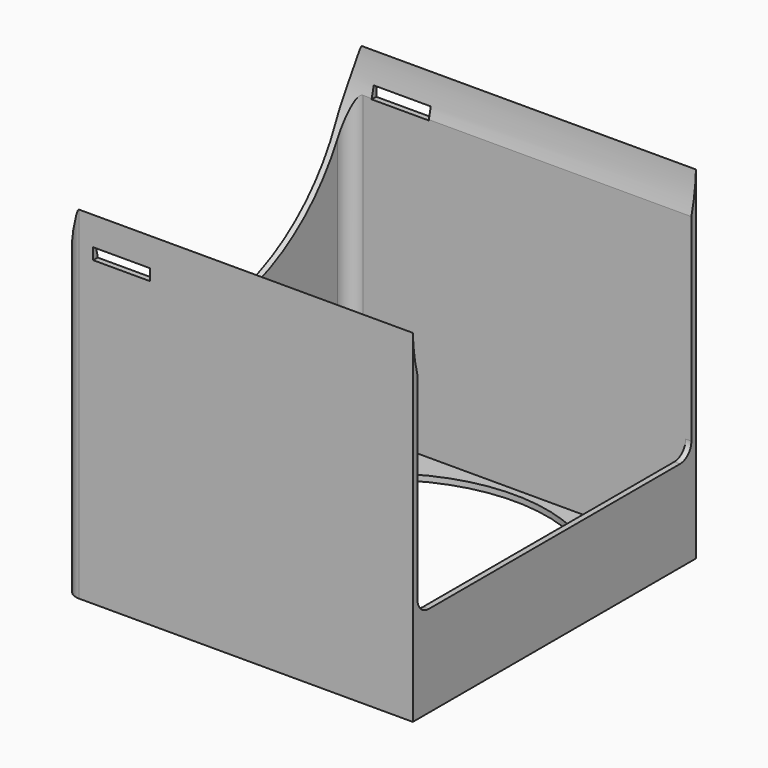
from build123d import *

# Parameters (mm, degrees)
F0_W     = 120
F0_H     = 120
F0_R     = 57.5
F1_DEPTH = 2
F2_DEPTH = 120
F3_D     = 3
F5_DEPTH = 122.001
F6_W     = 20
F6_H     = 4
F7_DEPTH = 124.001
F8_W     = 2
F8_H     = 120
F9_DEPTH = 30
F10_R    = 5


with BuildPart() as f1:
    # F0 (on Top) → F1 (new body)
    with BuildSketch(Plane.XY):
        Rectangle(F0_W, F0_H)
        Circle(F0_R, mode=Mode.SUBTRACT)
    extrude(amount=F1_DEPTH)

    # F0 (on Top) → F2 (join)
    with BuildSketch(Plane.XY):
        Polygon((60, -62), (60, -60), (-60, -60), (-60, 60), (60, 60), (60, 62), (-62, 62), (-62, -62), align=None)
    extrude(amount=F2_DEPTH)

    # F3 (through all)
    with Locations(Plane(origin=(0, 0, 0), x_dir=(1, 0, 0), z_dir=(0, 0, -1))):
        with Locations((52.5, 52.5), (52.5, -52.5), (-52.5, -52.5), (-52.5, 52.5)):
            Hole(F3_D / 2)

    # F4 (on face) → F5 (cut, through all)
    with BuildSketch(Plane(origin=(-62, 0, 0), x_dir=(0, -1, 0), z_dir=(-1, 0, 0))):
        with BuildLine():
            Line((62, 120), (-62, 120))
            ThreePointArc((-62, 120), (0, 60), (62, 120))
        make_face()
    extrude(amount=-F5_DEPTH, mode=Mode.SUBTRACT)

    # F6 (on face) → F7 (cut, through all)
    with BuildSketch(Plane.XZ.offset(62)):
        with Locations((-42, 108)):
            Rectangle(F6_W, F6_H)
    extrude(amount=-F7_DEPTH, mode=Mode.SUBTRACT)

    # F8 (on face) → F9 (join)
    with BuildSketch(Plane.XY.offset(2)):
        with Locations((59, 0)):
            Rectangle(F8_W, F8_H)
    extrude(amount=F9_DEPTH)

    # F10
    f10_edges = [f1.edges().sort_by_distance(p)[0] for p in [
        (59, 60, 32),
        (59, -60, 32),
        (-60, -60, 54.140525),
        (-62, -62, 60),
        (-62, 62, 60),
        (-60, 60, 54.140525),
    ]]
    fillet(f10_edges, radius=F10_R)


solid = f1.part
